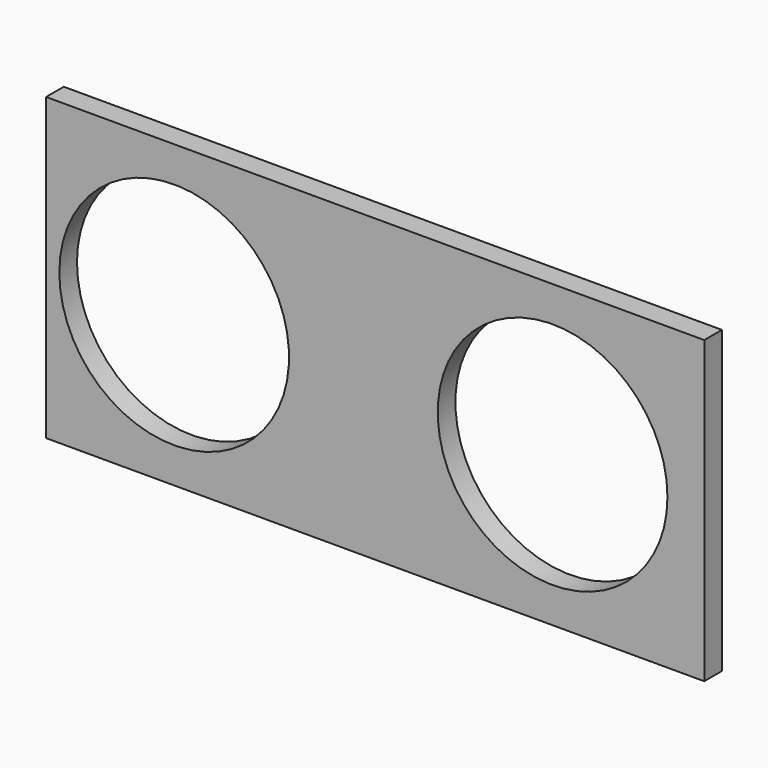
from build123d import *

# Parameters (mm, degrees)
F1_DEPTH = 3.81


with BuildPart() as f1:
    # F0 (on Front) → F1 (new body)
    with BuildSketch(Plane.XZ):
        Polygon((-56.769, 0), (-56.769, -25.908), (56.769, -25.908), (56.769, 0), (56.769, 25.908), (-56.769, 25.908), align=None)
        with BuildLine():
            ThreePointArc((-14.859, 0), (-34.671, -19.812), (-54.483, 0))
            ThreePointArc((-54.483, 0), (-34.671, 19.812), (-14.859, 0))
        make_face(mode=Mode.SUBTRACT)
        with BuildLine():
            ThreePointArc((10.795, 0), (30.607, 19.812), (50.419, 0))
            ThreePointArc((50.419, 0), (30.607, -19.812), (10.795, 0))
        make_face(mode=Mode.SUBTRACT)
    extrude(amount=F1_DEPTH)


solid = f1.part
